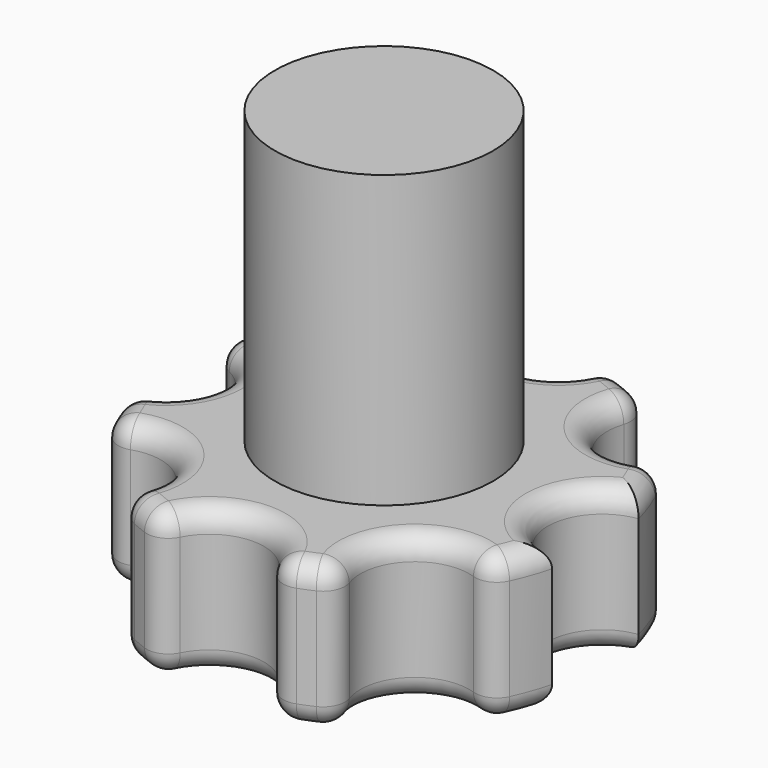
from build123d import *

# Parameters (mm, degrees)
F0_R     = 30
F1_DEPTH = 20
F2_R     = 15
F3_DEPTH = 40
F4_R     = 7.5
F5_DEPTH = 25
F6_R     = 3


with BuildPart() as f1:
    # F0 (on Top) → F1 (new body)
    with BuildSketch(Plane.XY):
        Circle(F0_R)
    extrude(amount=F1_DEPTH)

    # F4 (on face) → F5 (cut)
    with BuildSketch(Plane(origin=(0, 0, 0), x_dir=(1, 0, 0), z_dir=(0, 0, -1))):
        with Locations((-30, 0)):
            Circle(F4_R)
        with Locations((-21.2132034356, 21.2132034356)):
            Circle(F4_R)
        with Locations((0, 30)):
            Circle(F4_R)
        with Locations((21.2132034356, 21.2132034356)):
            Circle(F4_R)
        with Locations((30, 0)):
            Circle(F4_R)
        with Locations((21.2132034356, -21.2132034356)):
            Circle(F4_R)
        with Locations((0, -30)):
            Circle(F4_R)
        with Locations((-21.2132034356, -21.2132034356)):
            Circle(F4_R)
    extrude(amount=-F5_DEPTH, mode=Mode.SUBTRACT)

    # F6
    f6_edges = [f1.edges().sort_by_distance(p)[0] for p in [
        (22.5, 0, 20),
        (27.716386, 11.480503, 20),
        (15.909903, 15.909903, 20),
        (11.480503, 27.716386, 20),
        (0, 22.5, 20),
        (-11.480503, 27.716386, 20),
        (-15.909903, 15.909903, 20),
        (-27.716386, 11.480503, 20),
        (-22.5, 0, 20),
        (-27.716386, -11.480503, 20),
        (-15.909903, -15.909903, 20),
        (-11.480503, -27.716386, 20),
        (0, -22.5, 20),
        (11.480503, -27.716386, 20),
        (15.909903, -15.909903, 20),
        (27.716386, -11.480503, 20),
        (22.5, 0, 0),
        (27.716386, 11.480503, 0),
        (15.909903, 15.909903, 0),
        (11.480503, 27.716386, 0),
        (0, 22.5, 0),
        (-11.480503, 27.716386, 0),
        (-15.909903, 15.909903, 0),
        (-27.716386, 11.480503, 0),
        (-22.5, 0, 0),
        (-27.716386, -11.480503, 0),
        (-15.909903, -15.909903, 0),
        (-11.480503, -27.716386, 0),
        (0, -22.5, 0),
        (11.480503, -27.716386, 0),
        (15.909903, -15.909903, 0),
        (27.716386, -11.480503, 0),
        (7.441176, -29.0625, 10),
        (-7.441176, -29.0625, 10),
        (25.811997, -15.288585, 10),
        (15.288585, -25.811997, 10),
        (-25.811997, -15.288585, 10),
        (-15.288585, -25.811997, 10),
        (-29.0625, 7.441176, 10),
        (-29.0625, -7.441176, 10),
        (-15.288585, 25.811997, 10),
        (-25.811997, 15.288585, 10),
        (-7.441176, 29.0625, 10),
        (7.441176, 29.0625, 10),
        (15.288585, 25.811997, 10),
        (25.811997, 15.288585, 10),
    ]]
    fillet(f6_edges, radius=F6_R)


with BuildPart() as f3:
    # F2 (on face) → F3 (new body)
    with BuildSketch(Plane.XY.offset(20)):
        Circle(F2_R)
    extrude(amount=F3_DEPTH)


solid = Compound([f1.part, f3.part])
